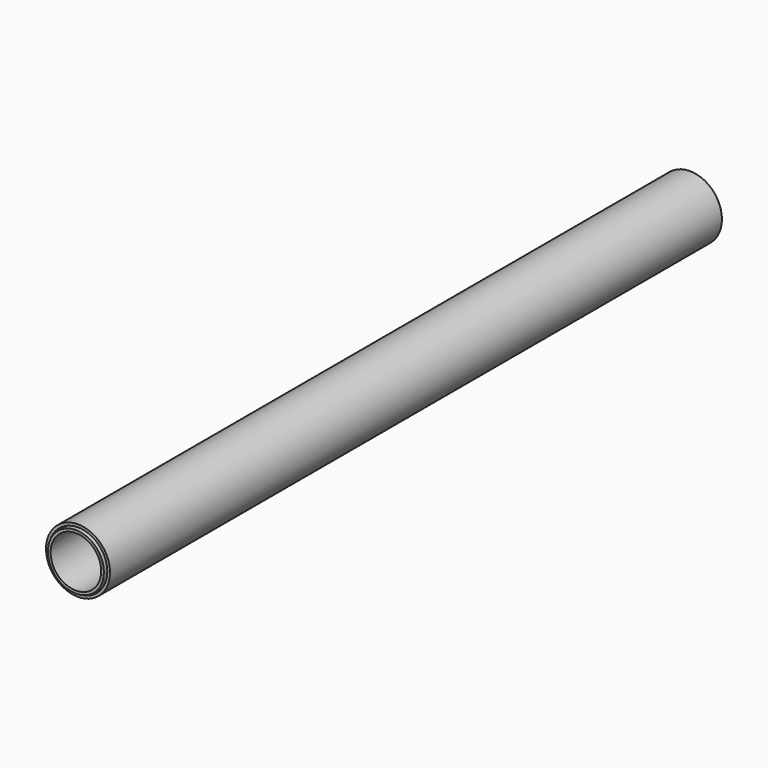
from build123d import *

# Parameters (mm, degrees)
F0_R     = 38.1
F0_R_2   = 34.925
F1_DEPTH = 911.225
F0_R_3   = 33.3375
F0_R_4   = 30.1625
F2_DEPTH = 914.4
F3_R     = 33.3375
F3_R_2   = 30.1625
F4_DEPTH = 3.175


with BuildPart() as f1:
    # F0 (on Front) → F1 (new body)
    with BuildSketch(Plane.XZ):
        Circle(F0_R)
        Circle(F0_R_2, mode=Mode.SUBTRACT)
    extrude(amount=F1_DEPTH)


with BuildPart() as f2:
    # F0 (on Front) → F2 (new body)
    with BuildSketch(Plane.XZ):
        Circle(F0_R_3)
        Circle(F0_R_4, mode=Mode.SUBTRACT)
    extrude(amount=F2_DEPTH)

    # F3 (on Front) → F4 (join)
    with BuildSketch(Plane.XZ):
        with Locations((0.016823, 0.092663)):
            Circle(F3_R)
        with Locations((0.016823, 0.092663)):
            Circle(F3_R_2, mode=Mode.SUBTRACT)
    extrude(amount=-F4_DEPTH)


solid = Compound([f1.part, f2.part])
